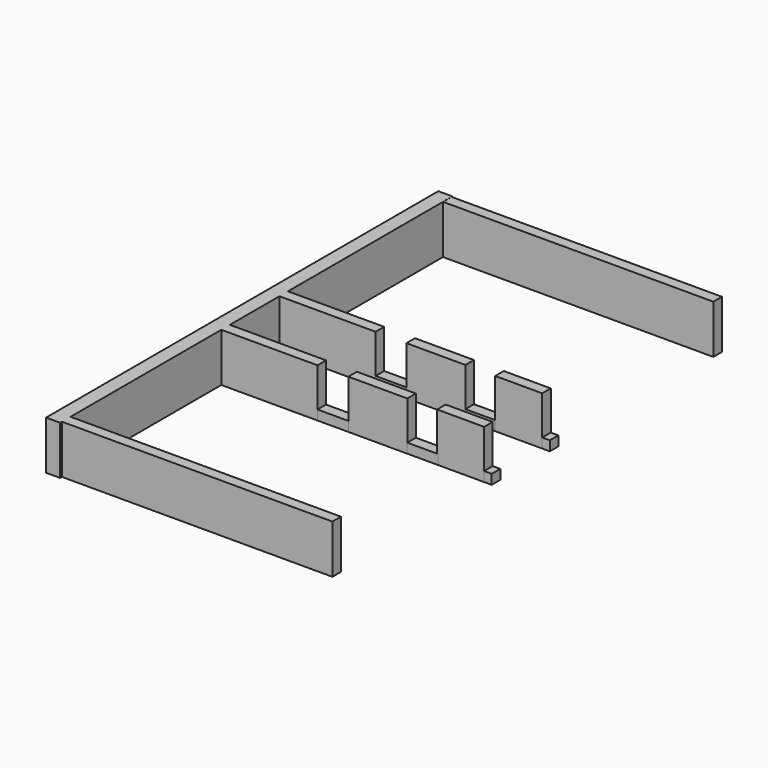
from build123d import *

# Parameters (mm, degrees)
F0_W     = 21.174676846
F0_H     = 0.8382
F1_DEPTH = 3.81
F0_W_2   = 21.1836360395
F0_W_3   = 1.046679914
F0_W_4   = 7.5350500569
F0_W_5   = 1.1009499431
F0_W_6   = 4.6228
F0_W_7   = 3.683
F2_W     = 2.4638
F2_H     = 0.8382
F3_DEPTH = 0.762
F2_W_2   = 2.413
F2_W_3   = 0.6691376


with BuildPart() as f1:
    # F0 (on Top) → F1 (new body)
    with BuildSketch(Plane.XY):
        with Locations((-65.556432987, 0.3016160522)):
            Rectangle(F0_W, F0_H)
    extrude(amount=F1_DEPTH)


with BuildPart() as f1b:
    # F0 (on Top) → F1, piece 2 (new body)
    with BuildSketch(Plane.XY):
        with Locations((-65.5609313399, -37.0110188411)):
            Rectangle(F0_W_2, F0_H)
        with Locations((-76.6760893166, -37.0110188411)):
            Rectangle(F0_W_3, F0_H)
        Polygon((-77.1994292736, -36.5919188411), (-76.1527493596, -36.5919188411), (-76.1527493596, -21.8275338411), (-77.2536993027, -21.8275338411), (-77.2536993027, -20.9893338411), (-76.1527493596, -20.9893338411), (-76.1527493596, -16.1379338411), (-77.2536993027, -16.1379338411), (-77.2536993027, -15.2997338411), (-76.1527493596, -15.2997338411), (-76.1527493596, 0.805442092), (-77.2577896714, 0.805442092), (-77.2577896714, -37.609949708), (-76.1527493596, -37.609949708), (-76.1527493596, -37.4301188411), (-77.1994292736, -37.4301188411), align=None)
        with Locations((-72.3852243311, -21.4084338411)):
            Rectangle(F0_W_4, F0_H)
        with Locations((-76.7032243311, -21.4084338411)):
            Rectangle(F0_W_5, F0_H)
        with Locations((-72.3852243311, -15.7188338411)):
            Rectangle(F0_W_4, F0_H)
        with Locations((-76.7032243311, -15.7188338411)):
            Rectangle(F0_W_5, F0_H)
    extrude(amount=F1_DEPTH)


with BuildPart() as f1c:
    # F0 (on Top) → F1, piece 3 (new body)
    with BuildSketch(Plane.XY):
        with Locations((-63.8932993027, -15.7188338411)):
            Rectangle(F0_W_6, F0_H)
    extrude(amount=F1_DEPTH)


with BuildPart() as f1d:
    # F0 (on Top) → F1, piece 4 (new body)
    with BuildSketch(Plane.XY):
        with Locations((-63.8932993027, -21.4084338411)):
            Rectangle(F0_W_6, F0_H)
    extrude(amount=F1_DEPTH)


with BuildPart() as f1e:
    # F0 (on Top) → F1, piece 5 (new body)
    with BuildSketch(Plane.XY):
        with Locations((-57.4035993027, -21.4084338411)):
            Rectangle(F0_W_7, F0_H)
    extrude(amount=F1_DEPTH)


with BuildPart() as f1f:
    # F0 (on Top) → F1, piece 6 (new body)
    with BuildSketch(Plane.XY):
        with Locations((-57.4035993027, -15.7188338411)):
            Rectangle(F0_W_7, F0_H)
    extrude(amount=F1_DEPTH)


with BuildPart() as f3:
    # F2 (on Top) → F3 (new body)
    with BuildSketch(Plane.XY):
        with Locations((-67.3887850354, -15.7187578801)):
            Rectangle(F2_W, F2_H)
    extrude(amount=F3_DEPTH)


with BuildPart() as f3b:
    # F2 (on Top) → F3, piece 2 (new body)
    with BuildSketch(Plane.XY):
        with Locations((-67.4098059485, -21.4084152412)):
            Rectangle(F2_W, F2_H)
    extrude(amount=F3_DEPTH)


with BuildPart() as f3c:
    # F2 (on Top) → F3, piece 3 (new body)
    with BuildSketch(Plane.XY):
        with Locations((-60.4155172818, -15.718545642)):
            Rectangle(F2_W_2, F2_H)
    extrude(amount=F3_DEPTH)


with BuildPart() as f3d:
    # F2 (on Top) → F3, piece 4 (new body)
    with BuildSketch(Plane.XY):
        with Locations((-60.3941102723, -21.4084460192)):
            Rectangle(F2_W_2, F2_H)
    extrude(amount=F3_DEPTH)


with BuildPart() as f3e:
    # F2 (on Top) → F3, piece 5 (new body)
    with BuildSketch(Plane.XY):
        with Locations((-55.3037305027, -15.7187973504)):
            Rectangle(F2_W_3, F2_H)
    extrude(amount=F3_DEPTH)


with BuildPart() as f3f:
    # F2 (on Top) → F3, piece 6 (new body)
    with BuildSketch(Plane.XY):
        with Locations((-55.3037305027, -21.4084160856)):
            Rectangle(F2_W_3, F2_H)
    extrude(amount=F3_DEPTH)


solid = Compound([f1.part, f1b.part, f1c.part, f1d.part, f1e.part, f1f.part, f3.part, f3b.part, f3c.part, f3d.part, f3e.part, f3f.part])
